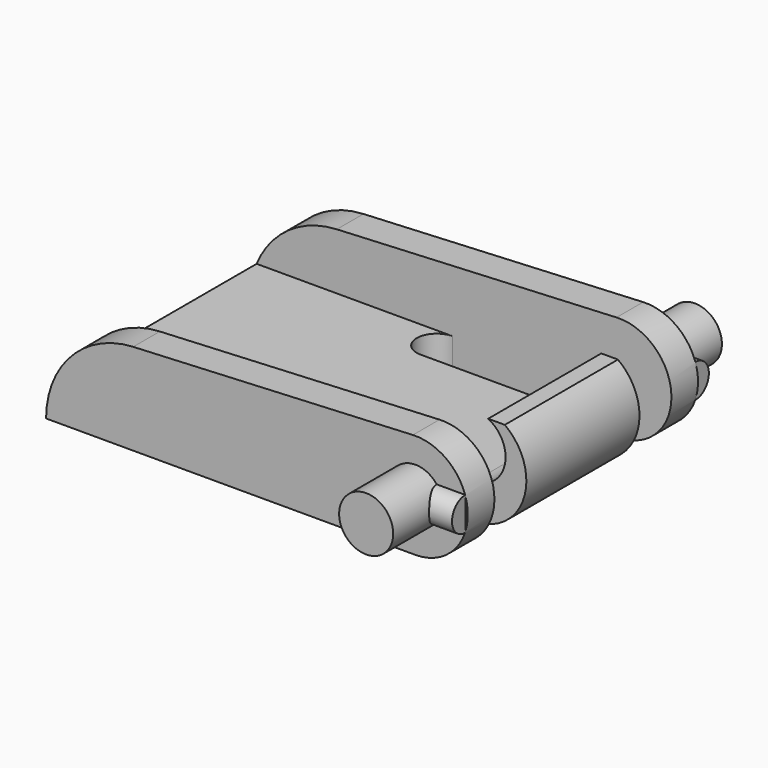
from build123d import *

# Parameters (mm, degrees)
PAD_DEPTH       = 8.65
SKETCH001_R     = 1.625
PAD001_DEPTH    = 3.7
PAD002_DEPTH    = 3
POCKET_START    = -2
POCKET_DEPTH    = 8.3
POCKET001_DEPTH = 73.3327090398


with BuildPart() as part:
    # Sketch → Pad (new body, symmetric)
    with BuildSketch(Plane.XZ):
        with BuildLine():
            ThreePointArc((0, -3.15), (3.1491038588, 0.075132459), (-0.1502221693, 3.1464159451))
            Line((-16.9622926765, 2.3437421264), (-0.1502221693, 3.1464159451))
            ThreePointArc((-16.9622926765, 2.3437421264), (-20.6807417475, 0.6452200383), (-22.2, -3.15))
            Line((0, -3.15), (-22.2, -3.15))
        make_face()
    extrude(amount=PAD_DEPTH, both=True)

    # Sketch001 (on Face6 of Pad) → Pad001 (join)
    with BuildSketch(Plane.XZ.offset(8.65)):
        Circle(SKETCH001_R)
    pad001 = extrude(amount=PAD001_DEPTH)

    # Sketch002 → Pad002 (join)
    with BuildSketch(Plane.YZ):
        with BuildLine():
            ThreePointArc((-8.65, 1), (-9.65, 0), (-8.65, -1))
            Line((-8.65, -1), (-8.65, 1))
        make_face()
    pad002 = extrude(amount=PAD002_DEPTH)

    # Sketch003 (on Face5 of Pad002) → Pocket (cut)
    with BuildSketch(Plane.XZ.offset(8.65).offset(POCKET_START)):
        with BuildLine():
            Line((-21.7833060109, -1.05), (0, -1.05))
            ThreePointArc((0, -1.05), (1.8482397845, 0.4106515201), (0.8542561404, 2.5464159451))
            Line((1.8542561404, 2.5464159451), (0.8542561404, 2.5464159451))
            ThreePointArc((1.8542561404, 2.5464159451), (0.9032900662, 3.0177089085), (-0.1502221693, 3.1464159451))
            Line((-16.9622926765, 2.3437421264), (-0.1502221693, 3.1464159451))
            ThreePointArc((-16.9622926765, 2.3437421264), (-19.8659481576, 1.3474183998), (-21.7833060109, -1.05))
        make_face()
    pocket = extrude(amount=-POCKET_DEPTH, mode=Mode.SUBTRACT)

    # Sketch004 (on Face12 of Pocket) → Pocket001 (cut, through all)
    with BuildSketch(Plane(origin=(0, 0, -3.15), x_dir=(1, 0, 0), z_dir=(0, 0, -1))):
        with BuildLine():
            ThreePointArc((-10, 6.65), (-11.2, 5.45), (-10, 4.25))
            Line((-10, 4.25), (5, 4.25))
            Line((5, 4.25), (5, 6.65))
            Line((5, 6.65), (-10, 6.65))
        make_face()
    pocket001 = extrude(amount=-POCKET001_DEPTH, mode=Mode.SUBTRACT)

    # Mirrored: Pocket001, Pocket, Pad002, Pad001 across XZ
    add(pocket001.mirror(Plane.XZ), mode=Mode.SUBTRACT)
    add(pocket.mirror(Plane.XZ), mode=Mode.SUBTRACT)
    add(pad002.mirror(Plane.XZ))
    add(pad001.mirror(Plane.XZ))


solid = part.part
